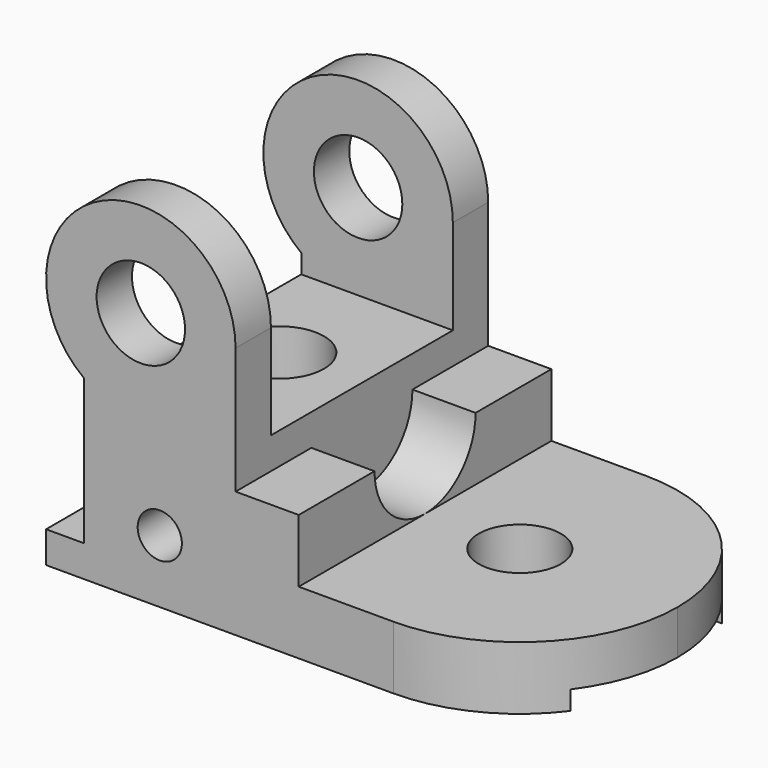
from build123d import *

# Parameters (mm, degrees)
F0_R      = 88.9
F0_R_2    = 177.8
F1_DEPTH  = 635
F3_DEPTH  = 254
F4_R      = 165.1
F5_DEPTH  = 254.001
F6_W      = 914.4
F6_H      = 889
F7_DEPTH  = 762.001
F8_R      = 177.8
F9_DEPTH  = 635.001
F10_W     = 762
F10_H     = 76.2
F11_DEPTH = 2032.001
F12_W     = 1270
F12_H     = 254
F13_DEPTH = 254
F15_DEPTH = 254


with BuildPart() as f1:
    # F0 (on Front) → F1 (new body, symmetric)
    with BuildSketch(Plane.XZ):
        with BuildLine():
            Line((0, 127), (0, 0))
            Line((0, 0), (1397, 0))
            Line((1397, 0), (1397, 254))
            Line((1397, 254), (762, 254))
            Line((762, 254), (762, 1016))
            ThreePointArc((762, 1016), (210.61162, 1356.77676), (152.4, 711.2))
            Line((152.4, 711.2), (152.4, 127))
            Line((152.4, 127), (0, 127))
        make_face()
        with Locations((457.2, 254)):
            Circle(F0_R, mode=Mode.SUBTRACT)
        with Locations((381, 1016)):
            Circle(F0_R_2, mode=Mode.SUBTRACT)
    extrude(amount=F1_DEPTH, both=True)

    # F2 (on face) → F3 (join)
    with BuildSketch(Plane.XY.offset(254)):
        with BuildLine():
            ThreePointArc((1397, 635), (762, 0), (1397, -635))
            Line((1397, -635), (1397, 635))
        make_face()
        with BuildLine():
            Line((1397, 635), (1397, -635))
            ThreePointArc((1397, -635), (1846.012806, -449.012806), (2032, 0))
            ThreePointArc((2032, 0), (1846.012806, 449.012806), (1397, 635))
        make_face()
    extrude(amount=-F3_DEPTH)

    # F4 (on face) → F5 (cut, through all)
    with BuildSketch(Plane.XY.offset(254)):
        with Locations((1397, 0)):
            Circle(F4_R)
    extrude(amount=-F5_DEPTH, mode=Mode.SUBTRACT)

    # F6 (on face) → F7 (cut, through all)
    with BuildSketch(Plane.YZ.offset(762)):
        with Locations((0, 1079.5)):
            Rectangle(F6_W, F6_H)
    extrude(amount=-F7_DEPTH, mode=Mode.SUBTRACT)

    # F8 (on face) → F9 (cut, through all)
    with BuildSketch(Plane.XY.offset(635)):
        with Locations((431.8, 0)):
            Circle(F8_R)
    extrude(amount=-F9_DEPTH, mode=Mode.SUBTRACT)

    # F10 (on face) → F11 (cut, through all)
    with BuildSketch(Plane(origin=(0, 0, 0), x_dir=(0, -1, 0), z_dir=(-1, 0, 0))):
        with Locations((0, 38.1)):
            Rectangle(F10_W, F10_H)
    extrude(amount=-F11_DEPTH, mode=Mode.SUBTRACT)

    # F12 (on face) → F13 (join)
    with BuildSketch(Plane.YZ.offset(762)):
        with Locations((0, 381)):
            Rectangle(F12_W, F12_H)
    extrude(amount=F13_DEPTH)

    # F14 (on face) → F15 (cut)
    with BuildSketch(Plane.YZ.offset(1016)):
        with BuildLine():
            ThreePointArc((254, 508), (0, 762), (-254, 508))
            Line((-254, 508), (254, 508))
        make_face()
        with BuildLine():
            Line((254, 508), (-254, 508))
            ThreePointArc((-254, 508), (0, 254), (254, 508))
        make_face()
    extrude(amount=-F15_DEPTH, mode=Mode.SUBTRACT)


solid = f1.part
